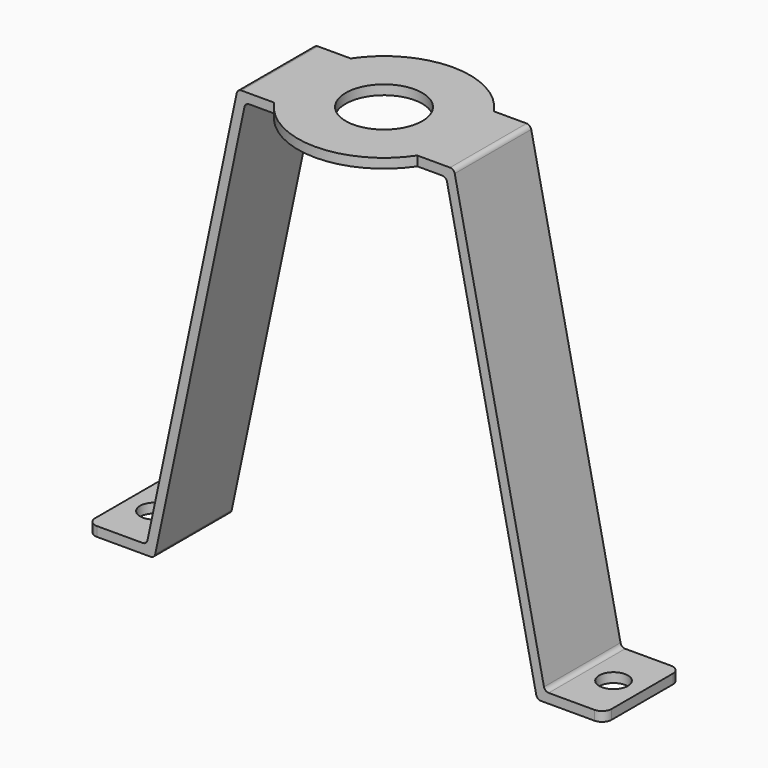
from build123d import *

# Parameters (mm, degrees)
F1_DEPTH = 5
F2_R     = 0.5
F3_R     = 0.5
F4_R     = 9
F5_DEPTH = 1
F6_R     = 4
F7_DEPTH = 46.001
F8_R     = 1.5
F9_DEPTH = 46.001
F10_R    = 1


with BuildPart() as f1:
    # F0 (on Front) → F1 (new body, symmetric)
    with BuildSketch(Plane.XZ):
        Polygon((-10.5, 45), (10.5, 45), (20, 0), (27, 0), (27, 1), (20.81093, 1), (11.31093, 46), (-11.31093, 46), (-20.81093, 1), (-27, 1), (-27, 0), (-20, 0), align=None)
    extrude(amount=F1_DEPTH, both=True)

    # F2
    f2_edges = [f1.edges().sort_by_distance(p)[0] for p in [
        (11.31093, 0, 46),
        (-11.31093, 0, 46),
        (-20.81093, 0, 1),
        (20.81093, 0, 1),
    ]]
    fillet(f2_edges, radius=F2_R)

    # F3
    f3_edges = [f1.edges().sort_by_distance(p)[0] for p in [
        (-10.5, 0, 45),
        (10.5, 0, 45),
        (20, 0, 0),
        (-20, 0, 0),
    ]]
    fillet(f3_edges, radius=F3_R)

    # F4 (on face) → F5 (join)
    with BuildSketch(Plane.XY.offset(46)):
        Circle(F4_R)
    extrude(amount=-F5_DEPTH)

    # F6 (on face) → F7 (cut, through all)
    with BuildSketch(Plane.XY.offset(46)):
        Circle(F6_R)
    extrude(amount=-F7_DEPTH, mode=Mode.SUBTRACT)

    # F8 (on Top) → F9 (cut, through all)
    with BuildSketch(Plane.XY):
        with Locations((-24, 0)):
            Circle(F8_R)
        with Locations((24, 0)):
            Circle(F8_R)
    extrude(amount=F9_DEPTH, mode=Mode.SUBTRACT)

    # F10
    f10_edges = [f1.edges().sort_by_distance(p)[0] for p in [
        (27, -5, 0.5),
        (27, 5, 0.5),
        (-27, -5, 0.5),
        (-27, 5, 0.5),
    ]]
    fillet(f10_edges, radius=F10_R)


solid = f1.part
